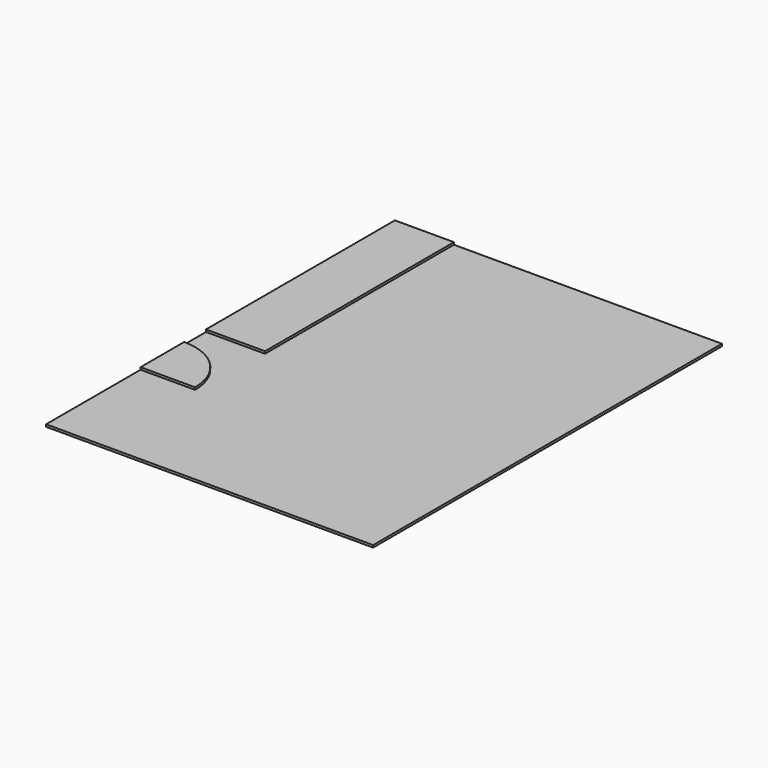
from build123d import *

# Parameters (mm, degrees)
F0_W     = 650
F0_H     = 2600
F1_DEPTH = 25
F2_W     = 650
F2_H     = 2600
F3_DEPTH = 25


with BuildPart() as f1:
    # F0 (on Top) → F1 (new body)
    with BuildSketch(Plane.XY):
        with Locations((-3275, 3500)):
            Rectangle(F0_W, F0_H)
        with BuildLine():
            Line((-3600, 1900), (-3600, 1300))
            Line((-3600, 1300), (-3000, 1300))
            ThreePointArc((-3000, 1300), (-3175.735931, 1724.264069), (-3600, 1900))
        make_face()
        with BuildLine():
            Line((-3600, 0), (0, 0))
            Line((0, 0), (0, 4800))
            Line((0, 4800), (-2950, 4800))
            Line((-2950, 4800), (-2950, 2200))
            Line((-2950, 2200), (-3600, 2200))
            Line((-3600, 2200), (-3600, 1900))
            ThreePointArc((-3600, 1900), (-3175.735931, 1724.264069), (-3000, 1300))
            Line((-3000, 1300), (-3600, 1300))
            Line((-3600, 1300), (-3600, 0))
        make_face()
    extrude(amount=F1_DEPTH)

    # F2 (on face) → F3 (join)
    with BuildSketch(Plane.XY.offset(25)):
        with Locations((-3275, 3500)):
            Rectangle(F2_W, F2_H)
        with BuildLine():
            ThreePointArc((-3000, 1300), (-3175.735931, 1724.264069), (-3600, 1900))
            Line((-3600, 1900), (-3600, 1300))
            Line((-3600, 1300), (-3000, 1300))
        make_face()
    extrude(amount=F3_DEPTH)


solid = f1.part
